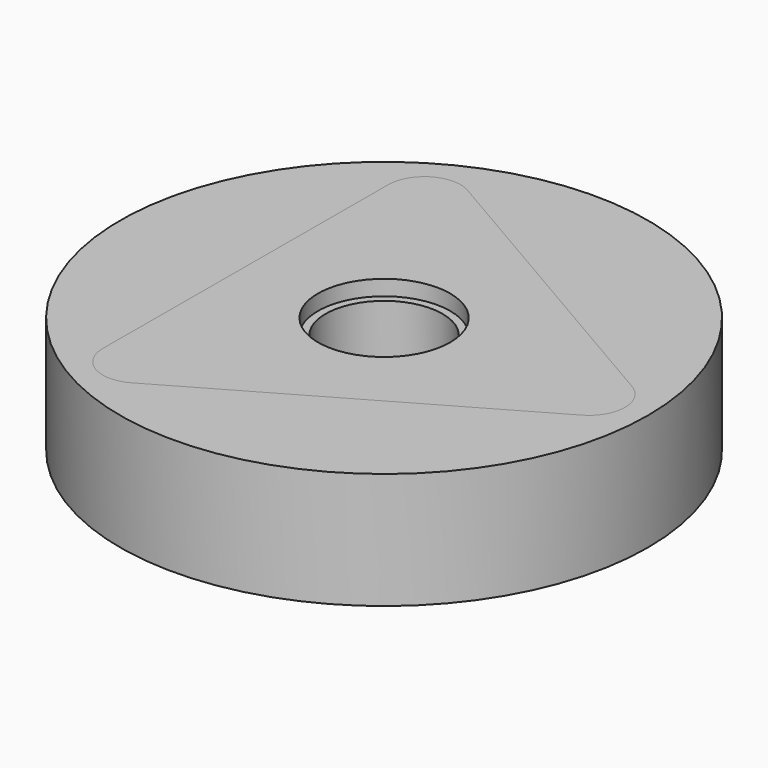
from build123d import *

# Parameters (mm, degrees)
F1_DEPTH  = 6.35
F2_R      = 19.05
F3_R      = 34.9631
F4_DEPTH  = 50.8
F5_R      = 30.8806200816
F6_DEPTH  = 33.274
F7_R      = 139.5279160075
F8_DEPTH  = 8.128
F9_R      = 139.5279160075
F9_R_2    = 129.9298488658
F10_DEPTH = 53.34
F12_DEPTH = 25.4


with BuildPart() as f1:
    # F0 (on Top) → F1 (new body)
    with BuildSketch(Plane.XY):
        Polygon((146.6462837719, -0.448095108), (-72.9350801391, 127.223454671), (-73.7112036328, -126.7753595631), align=None)
    extrude(amount=F1_DEPTH)

    # F2
    f2_edges = [f1.edges().sort_by_distance(p)[0] for p in [
        (-73.711204, -126.77536, 3.175),
        (146.646284, -0.448095, 3.175),
        (-72.93508, 127.223455, 3.175),
    ]]
    fillet(f2_edges, radius=F2_R)

    # F3 (on face) → F4 (join)
    with BuildSketch(Plane.XY.offset(6.35)):
        Circle(F3_R)
    extrude(amount=-F4_DEPTH)

    # F5 (on face) → F6 (cut)
    with BuildSketch(Plane.XY.offset(6.35)):
        Circle(F5_R)
    extrude(amount=-F6_DEPTH, mode=Mode.SUBTRACT)


with BuildPart() as f8:
    # F7 (on face) → F8 (new body)
    with BuildSketch(Plane.XY.offset(6.35)):
        Circle(F7_R)
        with BuildLine():
            ThreePointArc((-45.0859263318, -110.3649665318), (-64.1358373993, -110.3067572697), (-73.6103822335, -93.7799457144))
            Line((-73.6103822335, -93.7799457144), (-73.0359015384, 94.2280408223))
            ThreePointArc((-73.0359015384, 94.2280408223), (-63.460535305, 110.6966431157), (-44.4106242375, 110.6384338537))
            Line((-44.4106242375, 110.6384338537), (118.1218278702, 16.1369257094))
            ThreePointArc((118.1218278702, 16.1369257094), (127.5963727043, -0.3898858459), (118.0210064709, -16.8584881393))
            Line((118.0210064709, -16.8584881393), (-45.0859263318, -110.3649665318))
        make_face(mode=Mode.SUBTRACT)
    extrude(amount=F8_DEPTH)

    # F9 (on face) → F10 (join)
    with BuildSketch(Plane(origin=(0, 0, 6.35), x_dir=(1, 0, 0), z_dir=(0, 0, -1))):
        Circle(F9_R)
        Circle(F9_R_2, mode=Mode.SUBTRACT)
    extrude(amount=F10_DEPTH)


with BuildPart() as f8b:
    # F3 (on face) → F8, piece 2 (new body)
    with BuildSketch(Plane.XY.offset(6.35)):
        with BuildLine():
            ThreePointArc((-73.6103822335, -93.7799457144), (-64.1358373993, -110.3067572697), (-45.0859263318, -110.3649665318))
            Line((-45.0859263318, -110.3649665318), (118.0210064709, -16.8584881393))
            ThreePointArc((118.0210064709, -16.8584881393), (127.5963727043, -0.3898858459), (118.1218278702, 16.1369257094))
            Line((118.1218278702, 16.1369257094), (-44.4106242375, 110.6384338537))
            ThreePointArc((-44.4106242375, 110.6384338537), (-63.460535305, 110.6966431157), (-73.0359015384, 94.2280408223))
            Line((-73.0359015384, 94.2280408223), (-73.6103822335, -93.7799457144))
        make_face()
        Circle(F3_R, mode=Mode.SUBTRACT)
    extrude(amount=F8_DEPTH)


with BuildPart() as f12:
    # F11 (on Front) → F12 (new body)
    with BuildSketch(Plane.XZ):
        with BuildLine():
            Line((34.6210598946, -37.2728966177), (34.6210598946, -43.8208505511))
            add(Edge.make_bspline(
                [(34.6210598946, -43.8208505511), (37.3424381489, -41.2618896861), (43.7113013136, -35.0810915616), (61.838248232, -22.0740891901), (79.8853194232, -13.7873170703), (93.0145748577, -8.5731682167), (114.9478485777, -2.325147559), (124.4112987954, -1.1166638659), (127.684161067, 0)],
                knots=[0, 0, 0, 0, 0.1411030038, 0.3321649049, 0.5111465769, 0.6645423113, 0.8565416151, 1, 1, 1, 1], degree=3))
            Line((127.684161067, 0), (110.6588542461, 0))
            Line((110.6588542461, 0), (99.0305617452, -2.3880249355))
            Line((99.0305617452, -2.3880249355), (84.8977193236, -6.8604443222))
            Line((84.8977193236, -6.8604443222), (70.4070776701, -12.9429353401))
            Line((70.4070776701, -12.9429353401), (56.8109229207, -20.0988072902))
            Line((56.8109229207, -20.0988072902), (42.4991808832, -30.1170255989))
            Line((42.4991808832, -30.1170255989), (34.6210598946, -37.2728966177))
        make_face()
    extrude(amount=F12_DEPTH)


solid = Compound([f1.part, f8.part, f8b.part, f12.part])
